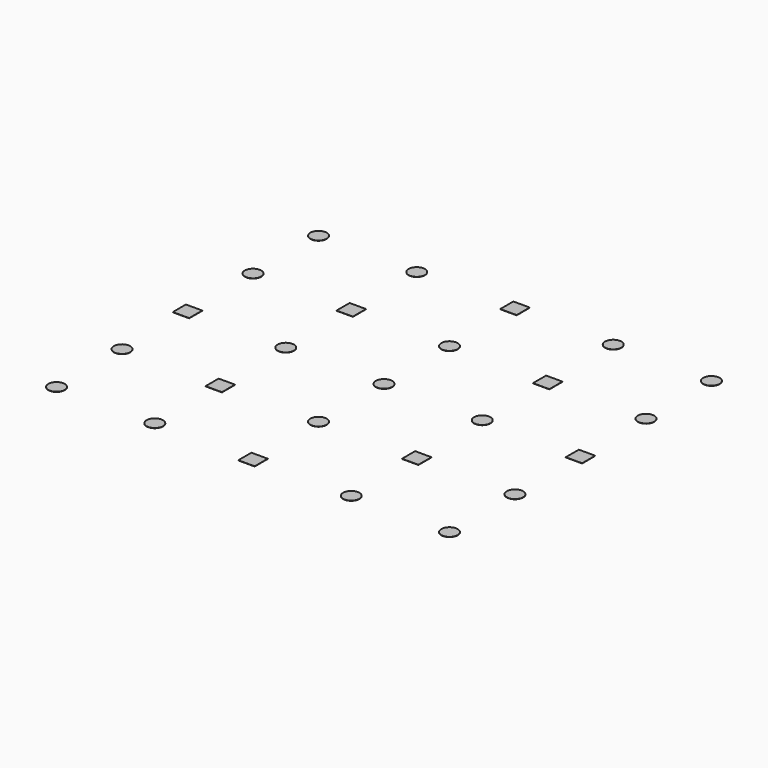
from build123d import *

# Parameters (mm, degrees)
F0_R     = 5
F0_W     = 10
F0_H     = 10
F1_DEPTH = 0.15


with BuildPart() as f1:
    # F0 (on Top) → F1 (new body)
    with BuildSketch(Plane.XY):
        Circle(F0_R)
        with Locations((-120, 0)):
            Rectangle(F0_W, F0_H)
        with Locations((120, 0)):
            Rectangle(F0_W, F0_H)
        with Locations((0, 100)):
            Rectangle(F0_W, F0_H)
        with Locations((0, -100)):
            Rectangle(F0_W, F0_H)
        with Locations((-120, 100)):
            Circle(F0_R)
        with Locations((120, 100)):
            Circle(F0_R)
        with Locations((-120, -100)):
            Circle(F0_R)
        with Locations((120, -100)):
            Circle(F0_R)
        with Locations((-60, 50)):
            Rectangle(F0_W, F0_H)
        with Locations((-120, 50)):
            Circle(F0_R)
        with Locations((-60, 100)):
            Circle(F0_R)
        with Locations((-60, 0)):
            Circle(F0_R)
        with Locations((60, 100)):
            Circle(F0_R)
        with Locations((120, 50)):
            Circle(F0_R)
        with Locations((-120, -50)):
            Circle(F0_R)
        with Locations((-60, -100)):
            Circle(F0_R)
        with Locations((60, -100)):
            Circle(F0_R)
        with Locations((120, -50)):
            Circle(F0_R)
        with Locations((60, 50)):
            Rectangle(F0_W, F0_H)
        with Locations((-60, -50)):
            Rectangle(F0_W, F0_H)
        with Locations((60, -50)):
            Rectangle(F0_W, F0_H)
        with Locations((0, 50)):
            Circle(F0_R)
        with Locations((0, -50)):
            Circle(F0_R)
        with Locations((60, 0)):
            Circle(F0_R)
    extrude(amount=F1_DEPTH)


solid = f1.part
